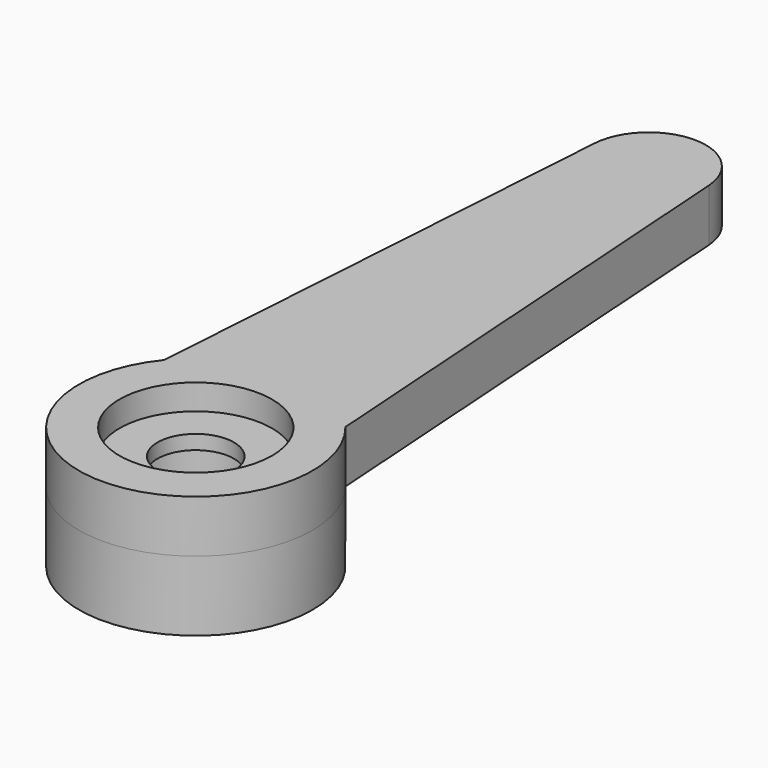
from build123d import *

# Parameters (mm, degrees)
PAD_DEPTH       = 1.65
SKETCH001_R     = 3.675
PAD001_DEPTH    = 2.2
SKETCH002_R     = 1.65
POCKET_DEPTH    = 2.6
SKETCH003_R     = 2.4
POCKET001_DEPTH = 0.8
SKETCH004_R     = 1.2
POCKET002_DEPTH = 3.051


with BuildPart() as part:
    # Sketch → Pad (new body)
    with BuildSketch(Plane.XY):
        with BuildLine():
            Line((-1.795904, 17.921356), (-2.85, 2.320156))
            ThreePointArc((-2.85, 2.320156), (0, -3.675), (2.85, 2.320156))
            Line((1.795904, 17.921356), (2.85, 2.320156))
            ThreePointArc((1.795904, 17.921356), (0, 19.6), (-1.795904, 17.921356))
        make_face()
    extrude(amount=-PAD_DEPTH)

    # Sketch001 → Pad001 (new body)
    with BuildSketch(Plane(origin=(0, 0, -1.65), x_dir=(1, 0, 0), z_dir=(0, 0, -1))):
        Circle(SKETCH001_R)
    extrude(amount=PAD001_DEPTH)

    # Sketch002 → Pocket (cut)
    with BuildSketch(Plane(origin=(0, 0, -3.85), x_dir=(1, 0, 0), z_dir=(0, 0, -1))):
        Circle(SKETCH002_R)
    extrude(amount=-POCKET_DEPTH, mode=Mode.SUBTRACT)

    # Sketch003 → Pocket001 (cut)
    with BuildSketch(Plane.XY):
        Circle(SKETCH003_R)
    extrude(amount=-POCKET001_DEPTH, mode=Mode.SUBTRACT)

    # Sketch004 → Pocket002 (cut, through all)
    with BuildSketch(Plane.XY.offset(-0.8)):
        Circle(SKETCH004_R)
    extrude(amount=-POCKET002_DEPTH, mode=Mode.SUBTRACT)


solid = part.part
